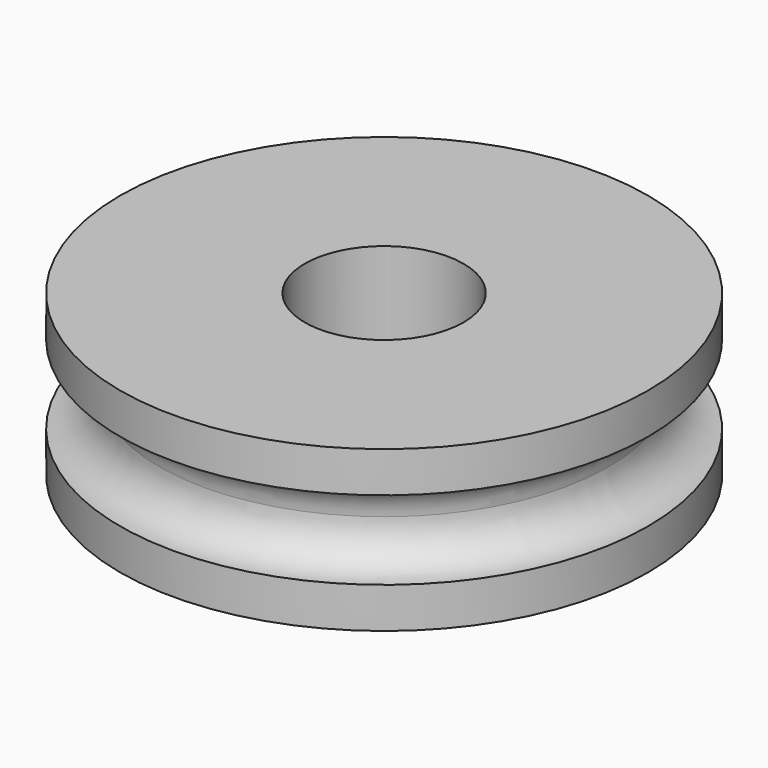
from build123d import *

# Parameters (mm, degrees)
F0_R     = 6.495
F0_R_2   = 1.955
F1_DEPTH = 3.94
F2_R     = 0.97


with BuildPart() as f1:
    # F0 (on Top) → F1 (new body)
    with BuildSketch(Plane.XY):
        Circle(F0_R)
        Circle(F0_R_2, mode=Mode.SUBTRACT)
    extrude(amount=F1_DEPTH)

    # F2 (on Right) → F3 (revolve, cut)
    with BuildSketch(Plane.YZ):
        with Locations((-6.495, 1.97)):
            Circle(F2_R)
    revolve(axis=Axis((0, 0, 3.703923), (0, 0, 1)), mode=Mode.SUBTRACT)


solid = f1.part
